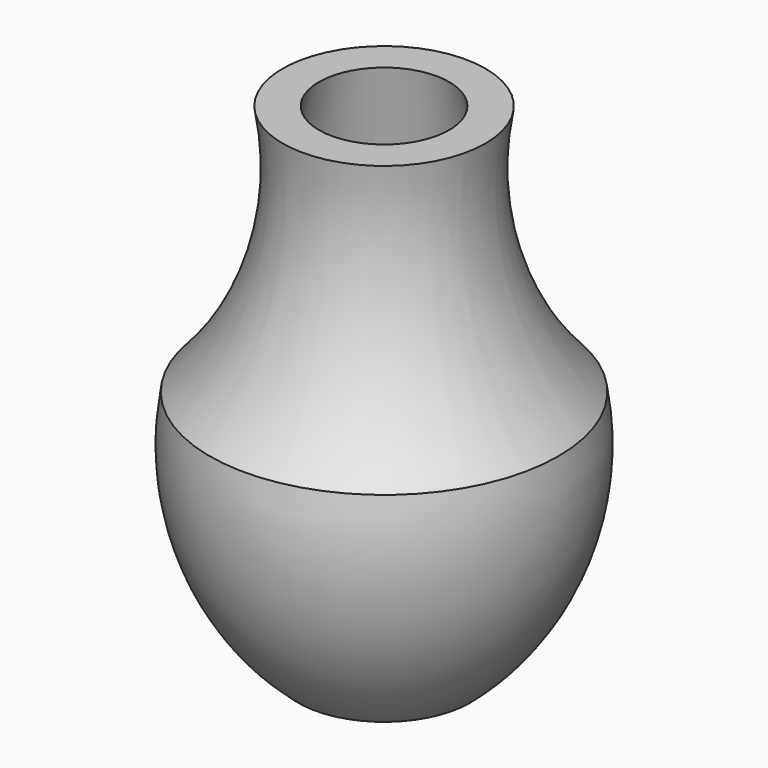
from build123d import *


with BuildPart() as f1:
    # F0 (on Front) → F1 (revolve)
    with BuildSketch(Plane.XZ):
        with BuildLine():
            Line((0, -59.163861), (14.661524, -59.163861))
            ThreePointArc((14.661524, -59.163861), (27.786311, -40.224746), (29.719422, -17.263623))
            ThreePointArc((29.719422, -17.263623), (18.366684, 2.688503), (17.28029, 25.618652))
            Line((17.28029, 25.618652), (0, 25.618652))
            Line((0, 25.618652), (0, -59.163861))
        make_face()
    revolve(axis=Axis((0, 0, -16.772605), (0, 0, 1)))

    # F2 (on Front) → F3 (revolve, cut)
    with BuildSketch(Plane.XZ):
        with BuildLine():
            Line((0, 25.88696), (-11.040121, 25.88696))
            Line((-11.040121, 25.88696), (-20.404007, -17.464366))
            ThreePointArc((-20.404007, -17.464366), (-20.462926, -36.483582), (-12.774174, -53.879477))
            Line((-12.774174, -53.879477), (0, -53.879477))
            Line((0, -53.879477), (0, 25.88696))
        make_face()
    revolve(axis=Axis((0, 0, -13.996258), (0, 0, -1)), mode=Mode.SUBTRACT)


solid = f1.part
